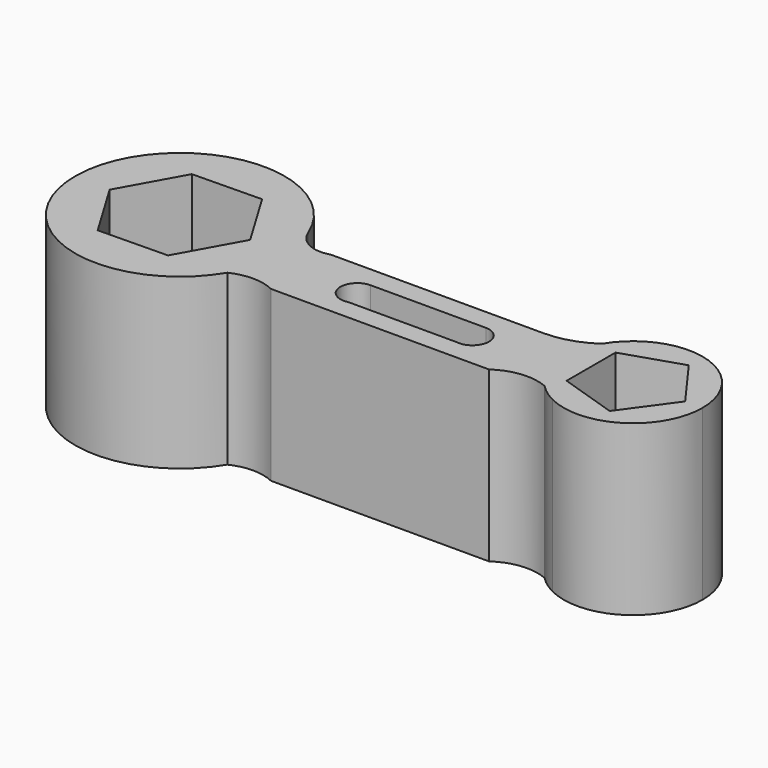
from build123d import *

# Parameters (mm, degrees)
F1_DEPTH = 25


with BuildPart() as f1:
    # F0 (on Top) → F1 (new body)
    with BuildSketch(Plane.XY):
        with BuildLine():
            ThreePointArc((37.7576954416, -9.2102163582), (47.7291677906, -8.725438733), (52.5801459464, 0))
            ThreePointArc((52.5801459464, 0), (45.0359965694, 9.9037039133), (33.4842184117, 5.2610793948))
            ThreePointArc((33.4842184117, 5.2610793948), (32.1020667525, -1.1741087466), (34.9094763525, -7.1272962089))
            ThreePointArc((34.9094763525, -7.1272962089), (36.4520652966, -8.0067456142), (37.7576954416, -9.2102163582))
        make_face()
        Polygon((46.0107769178, 5.4953820164), (50.0034056604, 0), (44.6856294577, -7.3192910224), (36.0812868173, -4.5235706254), (36.0812868173, 4.5235706254), (44.6856294577, 7.3192910224), align=None, mode=Mode.SUBTRACT)
        with BuildLine():
            ThreePointArc((34.9094763525, -7.1272962089), (32.1020667525, -1.1741087466), (33.4842184117, 5.2610793948))
            ThreePointArc((33.4842184117, 5.2610793948), (30.1721208062, 3.6571952775), (26.53361631, 3.1060874462))
            Line((26.53361631, 3.1060874462), (-4.9357796088, 3.1060874462))
            ThreePointArc((-4.9357796088, 3.1060874462), (-8.0929029993, 3.2954334717), (-10.29699962, 5.5637452022))
            ThreePointArc((-10.29699962, 5.5637452022), (-9.5238230465, 2.8294901369), (-9.2631732017, 0))
            ThreePointArc((-9.2631732017, 0), (-9.8138730709, -4.0933289992), (-11.4268110085, -7.8955709497))
            ThreePointArc((-11.4268110085, -7.8955709497), (-8.1795839214, -7.1670230809), (-4.9357796088, -7.9106623307))
            Line((-4.9357796088, -7.9106623307), (27.3132491857, -7.9106623307))
            ThreePointArc((27.3132491857, -7.9106623307), (31.0097542861, -6.533691424), (34.9094763525, -7.1272962089))
        make_face()
        with BuildLine():
            ThreePointArc((4.0779244155, -4.9060937017), (1.0056323331, -2.7925497007), (3.4770111088, 0))
            Line((3.4770111088, 0), (20.5028969795, 0))
            ThreePointArc((20.5028969795, 0), (22.9641081907, -2.6703736104), (20.102288574, -4.9060937017))
            Line((20.102288574, -4.9060937017), (4.0779244155, -4.9060937017))
        make_face(mode=Mode.SUBTRACT)
        with BuildLine():
            ThreePointArc((34.9094763525, -7.1272962089), (36.2434833253, -8.2919640144), (37.7576954416, -9.2102163582))
            ThreePointArc((37.7576954416, -9.2102163582), (36.4520652966, -8.0067456142), (34.9094763525, -7.1272962089))
        make_face()
        with BuildLine():
            ThreePointArc((-10.3811004349, 5.7774928533), (-10.3404533777, 5.6700668678), (-10.29699962, 5.5637452022))
            ThreePointArc((-10.29699962, 5.5637452022), (-10.3386537721, 5.6707749377), (-10.3811004349, 5.7774928533))
        make_face()
        with BuildLine():
            ThreePointArc((-9.2631732017, 0), (-9.5238230465, 2.8294901369), (-10.29699962, 5.5637452022))
            ThreePointArc((-10.29699962, 5.5637452022), (-10.3404533777, 5.6700668678), (-10.3811004349, 5.7774928533))
            ThreePointArc((-10.3811004349, 5.7774928533), (-40.1943173282, 1.1810763551), (-11.4268110085, -7.8955709497))
            ThreePointArc((-11.4268110085, -7.8955709497), (-9.8138730709, -4.0933289992), (-9.2631732017, 0))
        make_face()
        Polygon((-19.7663526565, 8.9728942857), (-14.4880691335, 0.1693609529), (-19.4730108813, -8.8035333329), (-29.7362361521, -8.9728942857), (-35.0145196751, -0.1693609529), (-30.0295779273, 8.8035333329), align=None, mode=Mode.SUBTRACT)
    extrude(amount=F1_DEPTH)


solid = f1.part
